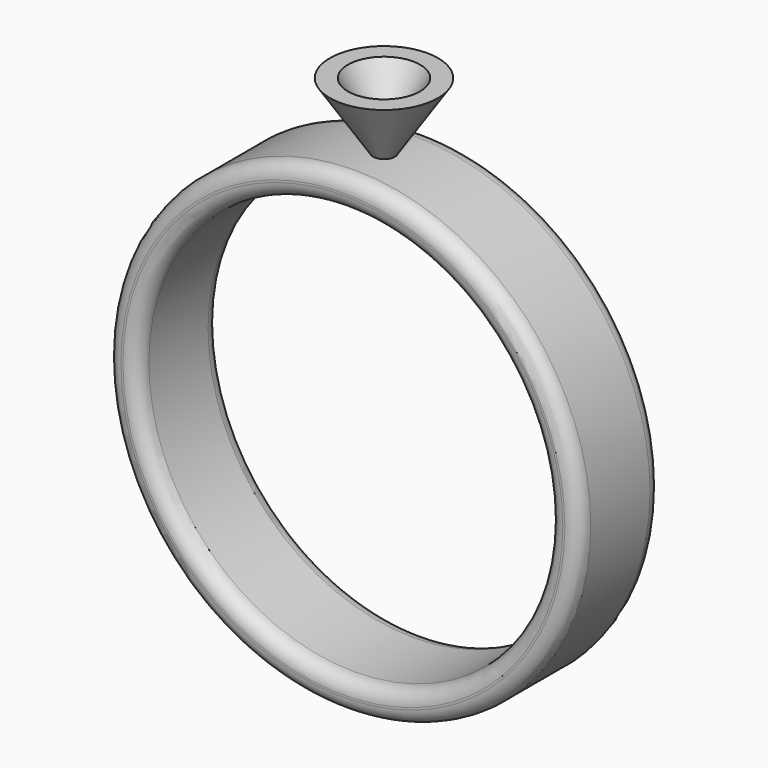
from build123d import *

# Parameters (mm, degrees)
F0_R     = 7.3025
F0_R_2   = 6.35
F1_DEPTH = 1.5875
F2_R     = 0.4445


with BuildPart() as f1:
    # F0 (on Front) → F1 (new body, symmetric)
    with BuildSketch(Plane.XZ):
        Circle(F0_R)
        Circle(F0_R_2, mode=Mode.SUBTRACT)
    extrude(amount=F1_DEPTH, both=True)

    # F2
    f2_edges = [f1.edges().sort_by_distance(p)[0] for p in [
        (-7.3025, -1.5875, 0),
        (-6.35, -1.5875, 0),
        (-7.3025, 1.5875, 0),
        (-6.35, 1.5875, 0),
    ]]
    fillet(f2_edges, radius=F2_R)

    # F3 (on Front) → F4 (revolve)
    with BuildSketch(Plane.XZ):
        Polygon((0, 9.3345), (0, 6.7945), (1.670926, 9.3345), align=None)
    revolve(axis=Axis((0, 0, 8.0645), (0, 0, 1)))

    # F5 (on Front) → F6 (revolve, cut)
    with BuildSketch(Plane.XZ):
        Polygon((1.410544, 9.829888), (0, 9.829888), (0, 7.456552), align=None)
    revolve(axis=Axis((0, 0, 8.64322), (0, 0, 1)), mode=Mode.SUBTRACT)


solid = f1.part
